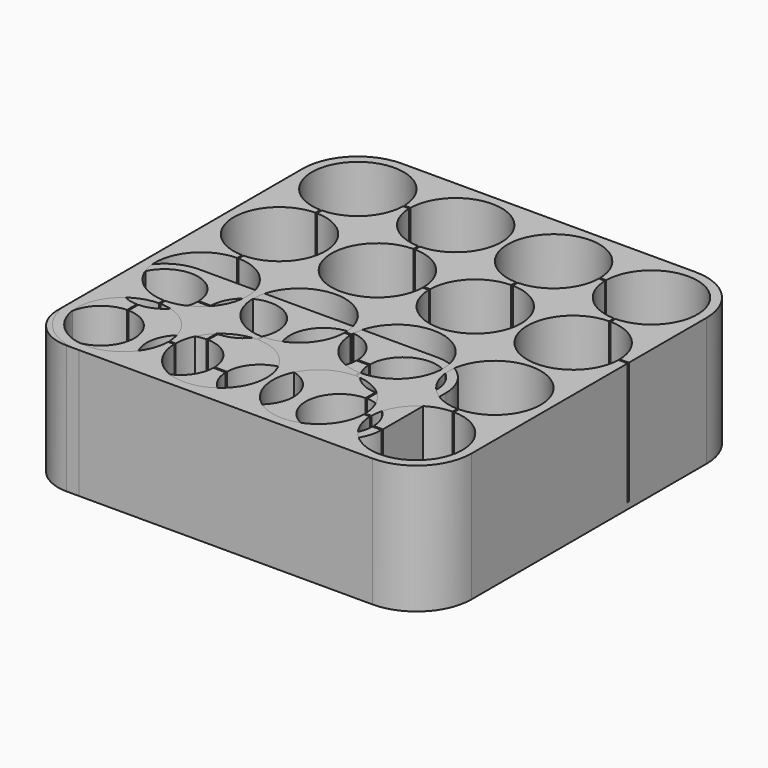
from build123d import *

# Parameters (mm, degrees)
BINDER_W                           = 27
BINDER_H                           = 53
PAD_DEPTH                          = 20
PAD_DEPTH_BACK                     = 1
BINDER001_R                        = 5.5
POCKET_DEPTH                       = 20.001
FILLET_R                           = 7
SKETCH001_W                        = 0.25
SKETCH001_H                        = 5
POCKET001_DEPTH                    = 20
LINEARPATTERN_COUNT                = 4
LINEARPATTERN_PITCH                = 13
SKETCH002_W                        = 8
SKETCH002_H                        = 0.25
POCKET002_DEPTH                    = 20
SKETCH003_W                        = 66
SKETCH003_H                        = 66
PAD001_DEPTH                       = 20
PAD001_DEPTH_BACK                  = 1
SKETCH004_R                        = 7.5
POCKET003_DEPTH                    = 211.343625
SKETCH004_LINEARPATTERN001_2_R     = 7.5
POCKET003_LINEARPATTERN001_2_DEPTH = 211.343625
SKETCH004_LINEARPATTERN001_3_R     = 7.5
POCKET003_LINEARPATTERN001_3_DEPTH = 211.343625
SKETCH004_LINEARPATTERN001_4_R     = 7.5
POCKET003_LINEARPATTERN001_4_DEPTH = 211.343625
LINEARPATTERN002_COUNT             = 4
LINEARPATTERN002_PITCH             = 16
FILLET001_R                        = 9
SKETCH005_W                        = 7.5
SKETCH005_H                        = 0.25
SKETCH005_W_2                      = 0.25
SKETCH005_H_2                      = 7.5
SKETCH005_H_3                      = 43
POCKET004_DEPTH                    = 20


with BuildPart() as f_8_x_aaa:
    # Binder → Pad (new body, two sides)
    with BuildSketch(Plane(origin=(26.5, 13.5, 0), x_dir=(0, 1, 0), z_dir=(0, 0, 1))) as pad_sk:
        Rectangle(BINDER_W, BINDER_H)
    extrude(amount=PAD_DEPTH)
    extrude(pad_sk.sketch, amount=-PAD_DEPTH_BACK)

    # Binder001 → Pocket (cut, through all)
    with BuildSketch(Plane(origin=(20, 20, 0), x_dir=(0, 1, 0), z_dir=(0, 0, 1))):
        Circle(BINDER001_R)
        with Locations((-13, -26)):
            Circle(BINDER001_R)
        with Locations((-13, -13)):
            Circle(BINDER001_R)
        with Locations((-13, 0)):
            Circle(BINDER001_R)
        with Locations((-13, 13)):
            Circle(BINDER001_R)
        with Locations((0, 13)):
            Circle(BINDER001_R)
        with Locations((0, -26)):
            Circle(BINDER001_R)
        with Locations((0, -13)):
            Circle(BINDER001_R)
    extrude(amount=POCKET_DEPTH, mode=Mode.SUBTRACT)

    # Fillet
    fillet_edges = [f_8_x_aaa.edges().sort_by_distance(p)[0] for p in [
        (0, 0, 9.5),
        (0, 27, 9.5),
        (53, 0, 9.5),
        (53, 27, 9.5),
    ]]
    fillet(fillet_edges, radius=FILLET_R)

    # Sketch001 (on Face5 of Fillet) → Pocket001 (cut)
    with BuildSketch(Plane.XY.offset(20)):
        with Locations((7, 13.5)):
            Rectangle(SKETCH001_W, SKETCH001_H)
    pocket001 = extrude(amount=-POCKET001_DEPTH, mode=Mode.SUBTRACT)

    # LinearPattern: Pocket001 ×4
    with Locations(*[(i * LINEARPATTERN_PITCH, 0, 0) for i in range(1, LINEARPATTERN_COUNT)]):
        add(pocket001, mode=Mode.SUBTRACT)

    # Sketch002 (on Face5 of LinearPattern) → Pocket002 (cut)
    with BuildSketch(Plane.XY.offset(20)):
        with Locations((39.5, 20)):
            Rectangle(SKETCH002_W, SKETCH002_H)
        with Locations((26.5, 7)):
            Rectangle(SKETCH002_W, SKETCH002_H)
        with Locations((52.5, 7)):
            Rectangle(SKETCH002_W, SKETCH002_H)
        with Locations((13.5, 20)):
            Rectangle(SKETCH002_W, SKETCH002_H)
    extrude(amount=-POCKET002_DEPTH, mode=Mode.SUBTRACT)


with BuildPart() as f_16_x_aa:
    # Sketch003 → Pad001 (new body, two sides)
    with BuildSketch(Plane.XY) as pad001_sk:
        with Locations((33, 33)):
            Rectangle(SKETCH003_W, SKETCH003_H)
    extrude(amount=PAD001_DEPTH)
    extrude(pad001_sk.sketch, amount=-PAD001_DEPTH_BACK)

    # Sketch004 → Pocket003 (cut, through all)
    with BuildSketch(Plane.XY):
        with Locations((9, 9)):
            Circle(SKETCH004_R)
    pocket003 = extrude(amount=POCKET003_DEPTH, mode=Mode.SUBTRACT)

    # Sketch004 LinearPattern001 2 → Pocket003 LinearPattern001 2 (cut, through all)
    with BuildSketch(Plane(origin=(16, 0, 0), x_dir=(1, 0, 0), z_dir=(0, 0, 1))):
        with Locations((9, 9)):
            Circle(SKETCH004_LINEARPATTERN001_2_R)
    pocket003_linearpattern001_2 = extrude(amount=POCKET003_LINEARPATTERN001_2_DEPTH, mode=Mode.SUBTRACT)

    # Sketch004 LinearPattern001 3 → Pocket003 LinearPattern001 3 (cut, through all)
    with BuildSketch(Plane(origin=(32, 0, 0), x_dir=(1, 0, 0), z_dir=(0, 0, 1))):
        with Locations((9, 9)):
            Circle(SKETCH004_LINEARPATTERN001_3_R)
    pocket003_linearpattern001_3 = extrude(amount=POCKET003_LINEARPATTERN001_3_DEPTH, mode=Mode.SUBTRACT)

    # Sketch004 LinearPattern001 4 → Pocket003 LinearPattern001 4 (cut, through all)
    with BuildSketch(Plane(origin=(48, 0, 0), x_dir=(1, 0, 0), z_dir=(0, 0, 1))):
        with Locations((9, 9)):
            Circle(SKETCH004_LINEARPATTERN001_4_R)
    pocket003_linearpattern001_4 = extrude(amount=POCKET003_LINEARPATTERN001_4_DEPTH, mode=Mode.SUBTRACT)

    # LinearPattern002: Pocket003, Pocket003 LinearPattern001 2, Pocket003 LinearPattern001 3, Pocket003 LinearPattern001 4 ×4
    with Locations(*[(0, i * LINEARPATTERN002_PITCH, 0) for i in range(1, LINEARPATTERN002_COUNT)]):
        add(pocket003, mode=Mode.SUBTRACT)
        add(pocket003_linearpattern001_2, mode=Mode.SUBTRACT)
        add(pocket003_linearpattern001_3, mode=Mode.SUBTRACT)
        add(pocket003_linearpattern001_4, mode=Mode.SUBTRACT)

    # Fillet001
    fillet001_edges = [f_16_x_aa.edges().sort_by_distance(p)[0] for p in [
        (0, 0, 9.5),
        (66, 0, 9.5),
        (66, 66, 9.5),
        (0, 66, 9.5),
    ]]
    fillet(fillet001_edges, radius=FILLET001_R)

    # Sketch005 (on Face5 of Fillet001) → Pocket004 (cut)
    with BuildSketch(Plane.XY.offset(20)):
        with Locations((66.75, 41)):
            Rectangle(SKETCH005_W, SKETCH005_H)
        with Locations((47.25, 57)):
            Rectangle(SKETCH005_W, SKETCH005_H)
        with Locations((41, 47.25)):
            Rectangle(SKETCH005_W_2, SKETCH005_H_2)
        with Locations((31.25, 41)):
            Rectangle(SKETCH005_W, SKETCH005_H)
        with Locations((25, 50.75)):
            Rectangle(SKETCH005_W_2, SKETCH005_H_2)
        with Locations((15.25, 57)):
            Rectangle(SKETCH005_W, SKETCH005_H)
        with Locations((9, 33)):
            Rectangle(SKETCH005_W_2, SKETCH005_H_3)
        with Locations((15.25, 9)):
            Rectangle(SKETCH005_W, SKETCH005_H)
        with Locations((25, 15.25)):
            Rectangle(SKETCH005_W_2, SKETCH005_H_2)
        with Locations((31.25, 25)):
            Rectangle(SKETCH005_W, SKETCH005_H)
        with Locations((41, 15.25)):
            Rectangle(SKETCH005_W_2, SKETCH005_H_2)
        with Locations((47.25, 9)):
            Rectangle(SKETCH005_W, SKETCH005_H)
        with Locations((57, 15.25)):
            Rectangle(SKETCH005_W_2, SKETCH005_H_2)
        with Locations((57, 50.75)):
            Rectangle(SKETCH005_W_2, SKETCH005_H_2)
    extrude(amount=-POCKET004_DEPTH, mode=Mode.SUBTRACT)


solid = Compound([f_8_x_aaa.part, f_16_x_aa.part])
